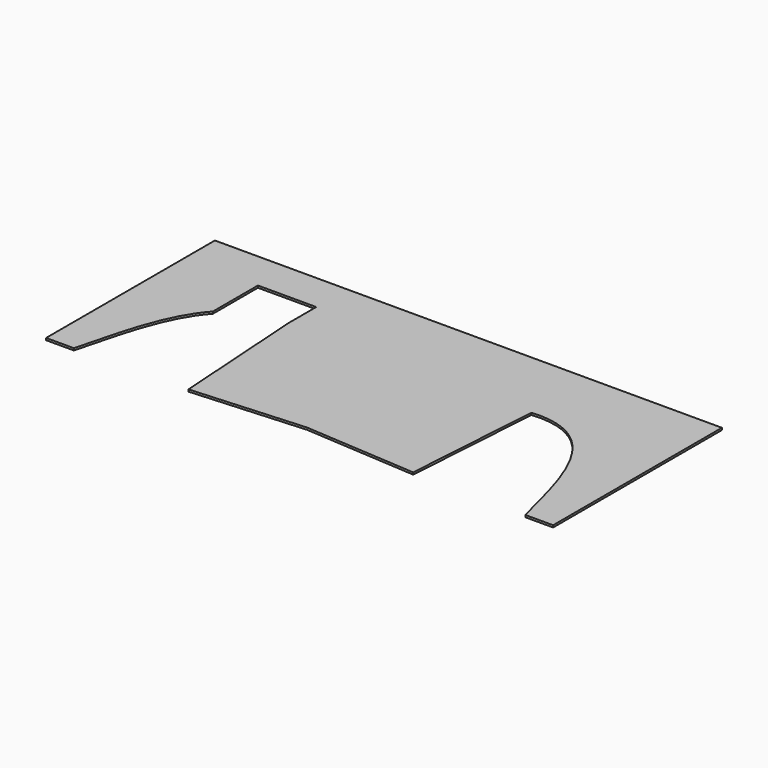
from build123d import *

# Parameters (mm, degrees)
F1_DEPTH = 0.4


with BuildPart() as f1:
    # F0 (on Top) → F1 (new body)
    with BuildSketch(Plane.XY):
        with BuildLine():
            Line((-21.9038240612, -39.2802841961), (0, -37.8296988058))
            Line((0, -37.8296988058), (0, 1.5558084287))
            Line((0, 1.5558084287), (-49.4176484644, 1.5558084287))
            Line((-49.4176484644, 1.5558084287), (-49.4176484644, -39.5778827369))
            Line((-49.4176484644, -39.5778827369), (-44, -39.5778827369))
            add(Edge.make_bspline(
                [(-44, -39.5778827369), (-41.9009812176, -31.3107147813), (-39.967373394, -23.2768925028), (-35.7254609829, -17.6712276554), (-35.032177344, -16.9143821545)],
                knots=[0, 0, 0, 0, 0.545331607, 0.6402959588, 0.6402959588, 0.6402959588, 0.6402959588], degree=3))
            Line((-35.032177344, -16.9143821545), (-35.032177344, -5.9383278713))
            Line((-35.032177344, -5.9383278713), (-23.665998131, -5.9383278713))
            Line((-23.665998131, -5.9383278713), (-23.665998131, -12.6714743674))
            Line((-23.665998131, -12.6714743674), (-21.9038240612, -39.2802841961))
        make_face()
        with BuildLine():
            Line((21.9038240612, -39.2802841961), (23.665998131, -12.6714743674))
            add(Edge.make_bspline(
                [(44, -39.5778827369), (41.9009812176, -31.3107147813), (38.8811154869, -18.7636696725), (30.2309490173, -12.1392643454), (23.665998131, -12.6714743674)],
                knots=[0, 0, 0, 0, 0.545331607, 1, 1, 1, 1], degree=3))
            Line((44, -39.5778827369), (49.4176484644, -39.5778827369))
            Line((49.4176484644, -39.5778827369), (49.4176484644, 1.5558084287))
            Line((49.4176484644, 1.5558084287), (0, 1.5558084287))
            Line((0, 1.5558084287), (0, -37.8296988058))
            Line((0, -37.8296988058), (21.9038240612, -39.2802841961))
        make_face()
    extrude(amount=F1_DEPTH)


solid = f1.part
